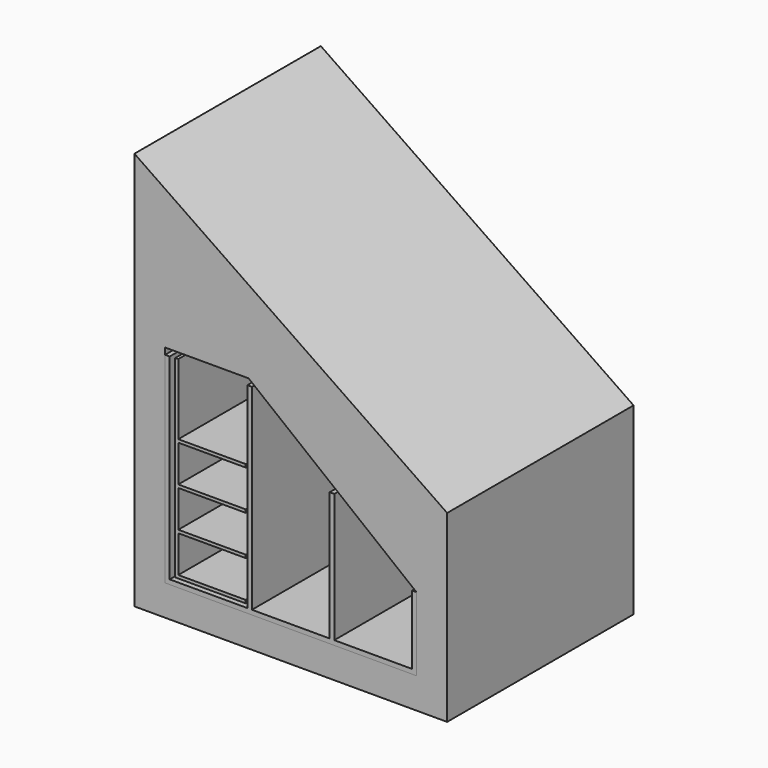
from build123d import *

# Parameters (mm, degrees)
F1_DEPTH = 965.2
F3_DEPTH = 914.4
F5_DEPTH = 889
F8_DEPTH = 889


with BuildPart() as f1:
    # F0 (on Front) → F1 (new body)
    with BuildSketch(Plane.XZ):
        Polygon((0, 1651), (0, 0), (1295.4, 0), (1295.4, 762), align=None)
    extrude(amount=F1_DEPTH)

    # F2 (on face) → F3 (cut)
    with BuildSketch(Plane.XZ.offset(965.2)):
        Polygon((127, 985.52), (127, 127), (1168.4, 127), (1168.4, 431.8), (472.948, 985.52), align=None)
    extrude(amount=-F3_DEPTH, mode=Mode.SUBTRACT)


with BuildPart() as f5:
    # F4 (on face) → F5 (new body)
    with BuildSketch(Plane.XZ.offset(965.2)):
        Polygon((127, 958.85), (127, 127), (1168.4, 127), (1168.4, 431.8), (1149.35, 431.8), (1149.35, 146.05), (827.786, 146.05), (827.786, 679.45), (808.736, 679.45), (808.736, 146.05), (486.664, 146.05), (486.664, 958.85), (467.614, 958.85), (467.614, 146.05), (146.05, 146.05), (146.05, 958.85), align=None)
    extrude(amount=-F5_DEPTH)


with BuildPart() as f8:
    # F7 (on offset) → F8 (new body)
    with BuildSketch(Plane.XZ.offset(952.5)):
        Polygon((158.75, 952.5), (158.75, 152.4), (450.85, 152.4), (450.85, 165.1), (171.45, 165.1), (171.45, 317.5), (450.85, 317.5), (450.85, 330.2), (171.45, 330.2), (171.45, 482.6), (450.85, 482.6), (450.85, 495.3), (171.45, 495.3), (171.45, 647.7), (450.85, 647.7), (450.85, 660.4), (171.45, 660.4), (171.45, 952.5), align=None)
    extrude(amount=-F8_DEPTH)


solid = Compound([f1.part, f5.part, f8.part])
